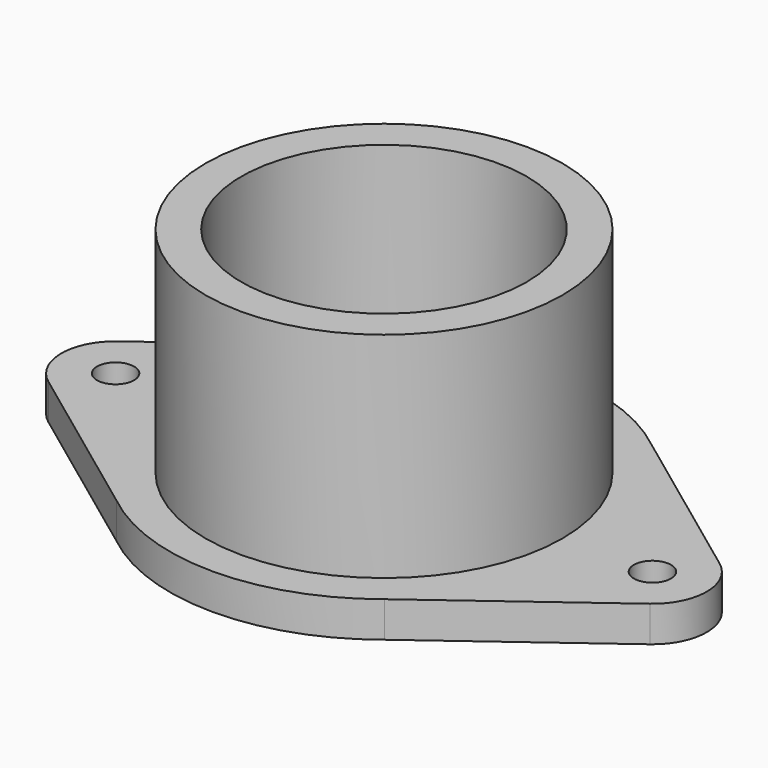
from build123d import *

# Parameters (mm, degrees)
F0_R     = 3.302
F0_R_2   = 31.75
F1_DEPTH = 6.35
F2_R     = 31.75
F2_R_2   = 25.4
F3_DEPTH = 44.45


with BuildPart() as f1:
    # F0 (on Top) → F1 (new body)
    with BuildSketch(Plane.XY):
        with BuildLine():
            Line((-53.496484, -7.756417), (-23.830945, -29.727026))
            ThreePointArc((-23.830945, -29.727026), (0, -38.1), (23.830945, -29.727026))
            Line((23.830945, -29.727026), (53.496484, -7.756417))
            ThreePointArc((53.496484, -7.756417), (57.404, 0), (53.496484, 7.756417))
            Line((53.496484, 7.756417), (23.830945, 29.727026))
            ThreePointArc((23.830945, 29.727026), (0, 38.1), (-23.830945, 29.727026))
            Line((-23.830945, 29.727026), (-53.496484, 7.756417))
            ThreePointArc((-53.496484, 7.756417), (-57.404, 0), (-53.496484, -7.756417))
        make_face()
        with Locations((-47.752, 0)):
            Circle(F0_R, mode=Mode.SUBTRACT)
        Circle(F0_R_2, mode=Mode.SUBTRACT)
        with Locations((47.752, 0)):
            Circle(F0_R, mode=Mode.SUBTRACT)
    extrude(amount=F1_DEPTH)

    # F2 (on Top) → F3 (join)
    with BuildSketch(Plane.XY):
        Circle(F2_R)
        Circle(F2_R_2, mode=Mode.SUBTRACT)
    extrude(amount=F3_DEPTH)


solid = f1.part
